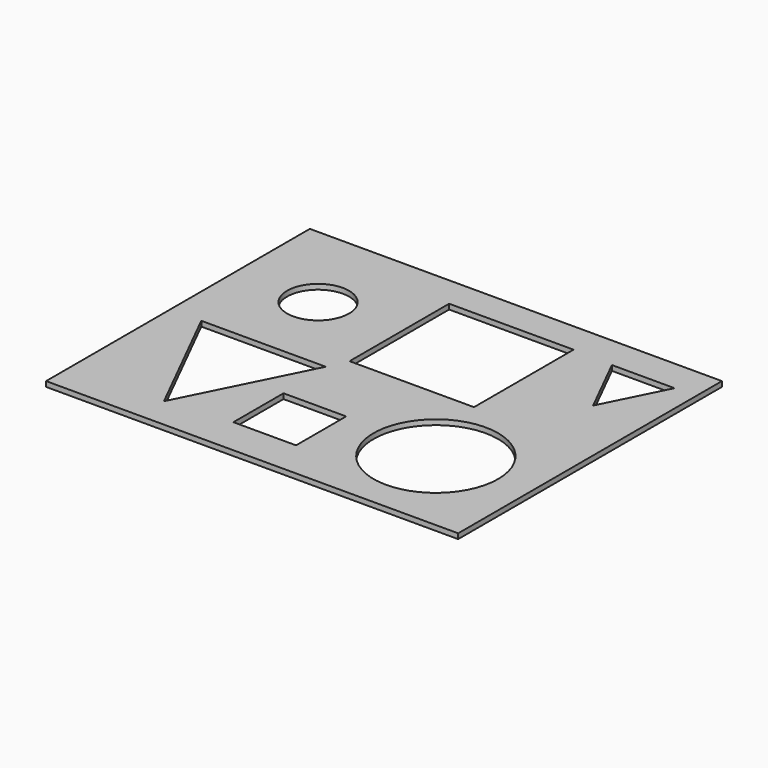
from build123d import *

# Parameters (mm, degrees)
F0_W      = 254
F0_H      = 203.2
F1_DEPTH  = 3.175
F3_DEPTH  = 25.4
F4_W      = 76.708
F4_H      = 76.708
F5_DEPTH  = 25.4
F6_R      = 38.354
F7_DEPTH  = 25.4
F9_DEPTH  = 25.4
F10_R     = 19.0754
F11_DEPTH = 25.4
F12_W     = 38.608
F12_H     = 38.608
F13_DEPTH = 25.4


with BuildPart() as f1:
    # F0 (on Top) → F1 (new body)
    with BuildSketch(Plane.XY):
        Rectangle(F0_W, F0_H)
    extrude(amount=F1_DEPTH)

    # F2 (on face) → F3 (cut)
    with BuildSketch(Plane(origin=(0, 0, 0), x_dir=(1, 0, 0), z_dir=(0, 0, -1))):
        Polygon((-69.596, 82.55), (-107.95, 5.842), (-31.242, 5.842), align=None)
    extrude(amount=-F3_DEPTH, mode=Mode.SUBTRACT)

    # F4 (on face) → F5 (cut)
    with BuildSketch(Plane(origin=(0, 0, 0), x_dir=(1, 0, 0), z_dir=(0, 0, -1))):
        with Locations((12.446, -44.196)):
            Rectangle(F4_W, F4_H)
    extrude(amount=-F5_DEPTH, mode=Mode.SUBTRACT)

    # F6 (on face) → F7 (cut)
    with BuildSketch(Plane(origin=(0, 0, 0), x_dir=(1, 0, 0), z_dir=(0, 0, -1))):
        with Locations((68.326, 45.466)):
            Circle(F6_R)
    extrude(amount=-F7_DEPTH, mode=Mode.SUBTRACT)

    # F8 (on face) → F9 (cut)
    with BuildSketch(Plane(origin=(0, 0, 0), x_dir=(1, 0, 0), z_dir=(0, 0, -1))):
        Polygon((94.512347, -42.973466), (75.208347, -81.581466), (113.816347, -81.581466), align=None)
    extrude(amount=-F9_DEPTH, mode=Mode.SUBTRACT)

    # F10 (on face) → F11 (cut)
    with BuildSketch(Plane(origin=(0, 0, 0), x_dir=(1, 0, 0), z_dir=(0, 0, -1))):
        with Locations((-76.1746, -44.4246)):
            Circle(F10_R)
    extrude(amount=-F11_DEPTH, mode=Mode.SUBTRACT)

    # F12 (on face) → F13 (cut)
    with BuildSketch(Plane(origin=(0, 0, 0), x_dir=(1, 0, 0), z_dir=(0, 0, -1))):
        with Locations((-10.528486, 59.436)):
            Rectangle(F12_W, F12_H)
    extrude(amount=-F13_DEPTH, mode=Mode.SUBTRACT)


solid = f1.part
